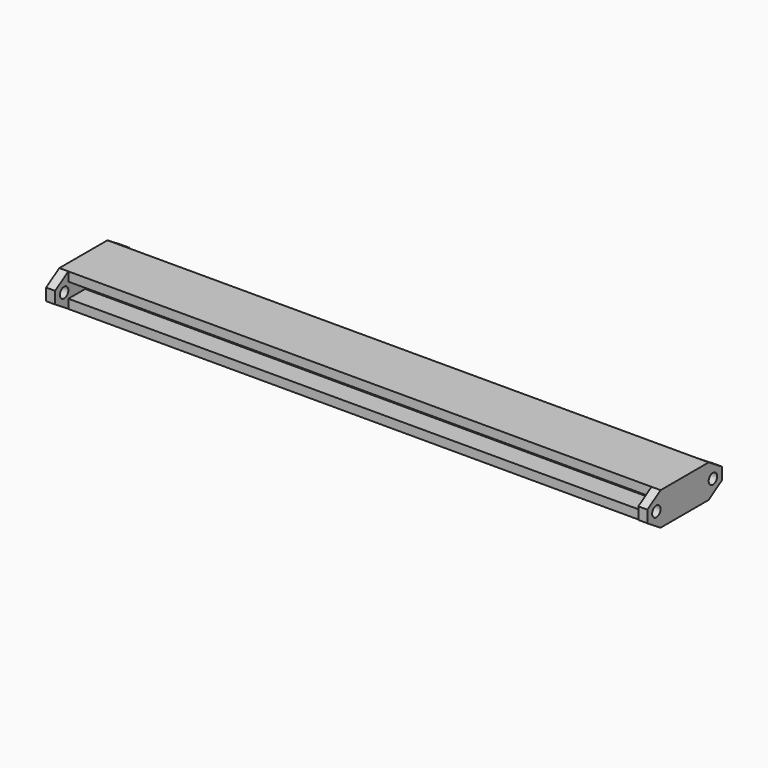
from build123d import *

# Parameters (mm, degrees)
F0_R     = 1.75
F1_DEPTH = 3
F2_DEPTH = 200
F3_R     = 1.75
F4_DEPTH = 3


with BuildPart() as f1:
    # F0 (on Right) → F1 (new body)
    with BuildSketch(Plane.YZ):
        Polygon((-3, 2.5), (-10, 2.5), (-10, 5.5), (-15.5, 2.03124969), (-15.5, -1.96875031), (-10, -5.5), (-10, -2.5), (-3, -2.5), align=None)
        with Locations((-11.75, 0)):
            Circle(F0_R, mode=Mode.SUBTRACT)
    extrude(amount=F1_DEPTH)



with BuildPart() as f1b:
    # F0 (on Right) → F1, piece 2 (new body)
    with BuildSketch(Plane.YZ):
        Polygon((15.5, 2.03124969), (10, 5.5), (10, 2.5), (3, 2.5), (3, -2.5), (10, -2.5), (10, -5.5), (15.5, -1.96875031), align=None)
        with Locations((11.75, 0)):
            Circle(F0_R, mode=Mode.SUBTRACT)
    extrude(amount=F1_DEPTH)


with BuildPart() as f1_1:
    add(f1.part)

    add(f1b.part)  # F2 merges F1b
    # F0 (on Right) → F2 (join)
    with BuildSketch(Plane.YZ):
        Polygon((-10, 5.5), (-10, 2.5), (-3, 2.5), (-3, -2.5), (-10, -2.5), (-10, -5.5), (10, -5.5), (10, -2.5), (3, -2.5), (3, 2.5), (10, 2.5), (10, 5.5), align=None)
    extrude(amount=F2_DEPTH)

    # F3 (on face) → F4 (join)
    with BuildSketch(Plane.YZ.offset(200)):
        Polygon((-3, 2.5), (-10, 2.5), (-10, 5.5), (-15.5, 2.03124969), (-15.5, -1.96875031), (-10, -5.5), (-10, -2.5), (-3, -2.5), align=None)
        with Locations((-11.75, 0)):
            Circle(F3_R, mode=Mode.SUBTRACT)
        Polygon((15.5, 2.03124969), (10, 5.5), (10, 2.5), (3, 2.5), (3, -2.5), (10, -2.5), (10, -5.5), (15.5, -1.96875031), align=None)
        with Locations((11.75, 0)):
            Circle(F3_R, mode=Mode.SUBTRACT)
    extrude(amount=-F4_DEPTH)


solid = f1_1.part
